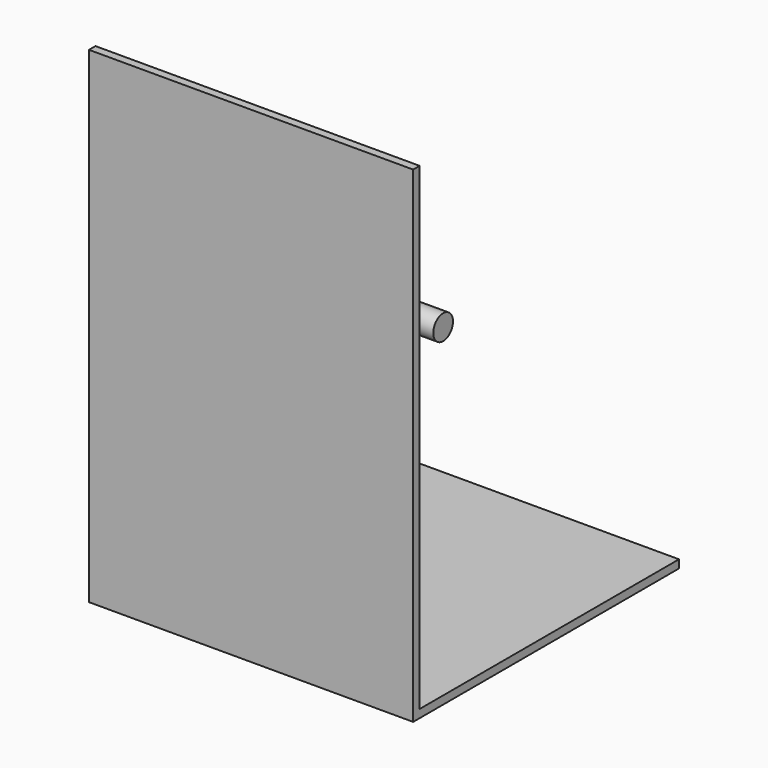
from build123d import *

# Parameters (mm, degrees)
F0_W     = 1000
F0_H     = 1500
F1_DEPTH = 25
F2_W     = 1000
F2_H     = 1000
F3_DEPTH = 25
F4_R     = 38
F5_DEPTH = 1000


with BuildPart() as f1:
    # F0 (on Front) → F1 (new body)
    with BuildSketch(Plane.XZ):
        with Locations((500, 750)):
            Rectangle(F0_W, F0_H)
    extrude(amount=F1_DEPTH)

    # F2 (on Top) → F3 (join)
    with BuildSketch(Plane.XY):
        with Locations((500, 500)):
            Rectangle(F2_W, F2_H)
    extrude(amount=F3_DEPTH)


with BuildPart() as f5:
    # F4 (on Right) → F5 (new body)
    with BuildSketch(Plane.YZ):
        with Locations((90.537608, 1025)):
            Circle(F4_R)
    extrude(amount=F5_DEPTH)


solid = Compound([f1.part, f5.part])
